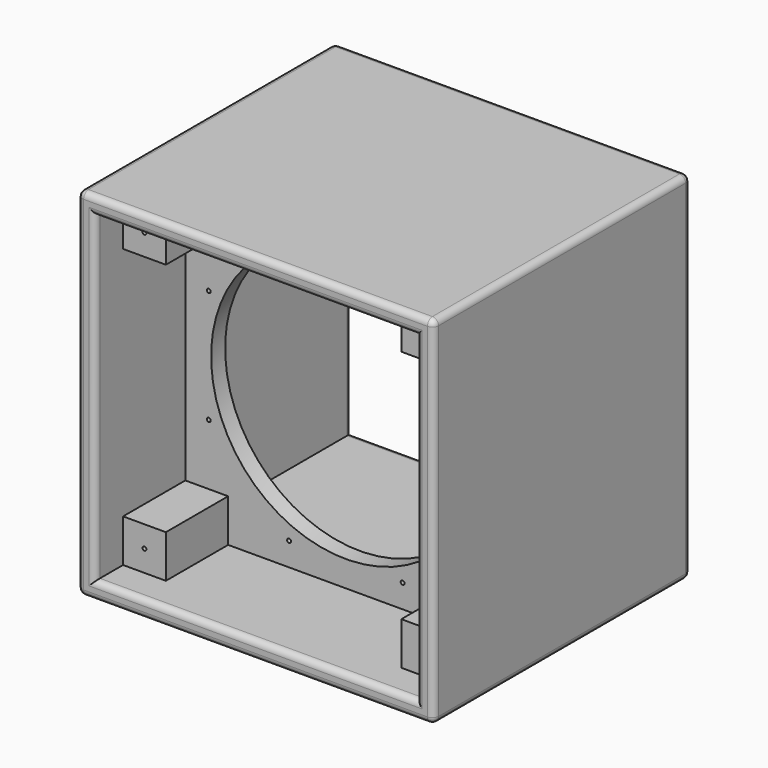
from build123d import *

# Parameters (mm, degrees)
F0_W     = 366
F0_H     = 366
F1_DEPTH = 330
F0_W_2   = 44
F0_H_2   = 44
F0_R     = 2
F0_R_2   = 138.5
F2_DEPTH = 18
F3_DEPTH = 80
F4_R     = 6.3


with BuildPart() as f1:
    # F0 (on Front) → F1 (new body)
    with BuildSketch(Plane.XZ):
        Rectangle(F0_W, F0_H)
        Polygon((165, -121), (165, -165), (121, -165), (-121, -165), (-165, -165), (-165, -121), (-165, 121), (-165, 165), (-121, 165), (121, 165), (165, 165), (165, 121), align=None, mode=Mode.SUBTRACT)
    extrude(amount=-F1_DEPTH)

    # F4
    f4_edges = [f1.edges().sort_by_distance(p)[0] for p in [
        (183, 165, -183),
        (183, 165, 183),
        (183, 0, 0),
        (183, 330, 0),
        (-183, 165, 183),
        (0, 0, 183),
        (0, 330, 183),
        (-183, 165, -183),
        (-183, 0, 0),
        (-183, 330, 0),
        (0, 0, -183),
        (0, 330, -183),
        (165, 0, 0),
        (0, 0, -165),
        (-165, 0, 0),
        (0, 0, 165),
        (0, 330, -165),
        (-165, 330, 0),
        (0, 330, 165),
        (165, 330, 0),
    ]]
    fillet(f4_edges, radius=F4_R)


with BuildPart() as f2:
    # F0 (on Front) → F2 (new body)
    with BuildSketch(Plane.XZ):
        with Locations((143, -143)):
            Rectangle(F0_W_2, F0_H_2)
        with Locations((143, -143)):
            Circle(F0_R, mode=Mode.SUBTRACT)
        Polygon((-121, -165), (121, -165), (121, -121), (165, -121), (165, 121), (121, 121), (121, 165), (-121, 165), (-121, 121), (-165, 121), (-165, -121), (-121, -121), align=None)
        with Locations((-58.3592234357, -140.891628708)):
            Circle(F0_R, mode=Mode.SUBTRACT)
        with Locations((-140.891628708, -58.3592234357)):
            Circle(F0_R, mode=Mode.SUBTRACT)
        with Locations((58.3592234357, -140.891628708)):
            Circle(F0_R, mode=Mode.SUBTRACT)
        with Locations((140.891628708, -58.3592234357)):
            Circle(F0_R, mode=Mode.SUBTRACT)
        with Locations((-140.891628708, 58.3592234357)):
            Circle(F0_R, mode=Mode.SUBTRACT)
        with Locations((-58.3592234357, 140.891628708)):
            Circle(F0_R, mode=Mode.SUBTRACT)
        Circle(F0_R_2, mode=Mode.SUBTRACT)
        with Locations((140.891628708, 58.3592234357)):
            Circle(F0_R, mode=Mode.SUBTRACT)
        with Locations((58.3592234357, 140.891628708)):
            Circle(F0_R, mode=Mode.SUBTRACT)
        with Locations((-143, -143)):
            Rectangle(F0_W_2, F0_H_2)
        with Locations((-143, -143)):
            Circle(F0_R, mode=Mode.SUBTRACT)
        with Locations((-143, 143)):
            Rectangle(F0_W_2, F0_H_2)
        with Locations((-143, 143)):
            Circle(F0_R, mode=Mode.SUBTRACT)
        Polygon((-121, -165), (121, -165), (121, -121), (165, -121), (165, 121), (121, 121), (121, 165), (-121, 165), (-121, 121), (-165, 121), (-165, -121), (-121, -121), align=None)
        with Locations((-58.3592234357, -140.891628708)):
            Circle(F0_R, mode=Mode.SUBTRACT)
        with Locations((-140.891628708, -58.3592234357)):
            Circle(F0_R, mode=Mode.SUBTRACT)
        with Locations((58.3592234357, -140.891628708)):
            Circle(F0_R, mode=Mode.SUBTRACT)
        with Locations((140.891628708, -58.3592234357)):
            Circle(F0_R, mode=Mode.SUBTRACT)
        with Locations((-140.891628708, 58.3592234357)):
            Circle(F0_R, mode=Mode.SUBTRACT)
        with Locations((-58.3592234357, 140.891628708)):
            Circle(F0_R, mode=Mode.SUBTRACT)
        Circle(F0_R_2, mode=Mode.SUBTRACT)
        with Locations((140.891628708, 58.3592234357)):
            Circle(F0_R, mode=Mode.SUBTRACT)
        with Locations((58.3592234357, 140.891628708)):
            Circle(F0_R, mode=Mode.SUBTRACT)
        with Locations((143, 143)):
            Rectangle(F0_W_2, F0_H_2)
        with Locations((143, 143)):
            Circle(F0_R, mode=Mode.SUBTRACT)
    extrude(amount=-F2_DEPTH)


with BuildPart() as f3:
    # F0 (on Front) → F3 (new body)
    with BuildSketch(Plane.XZ):
        with Locations((-143, 143)):
            Rectangle(F0_W_2, F0_H_2)
        with Locations((-143, 143)):
            Circle(F0_R, mode=Mode.SUBTRACT)
    extrude(amount=-F3_DEPTH)


with BuildPart() as f3b:
    # F0 (on Front) → F3, piece 2 (new body)
    with BuildSketch(Plane.XZ):
        with Locations((143, 143)):
            Rectangle(F0_W_2, F0_H_2)
        with Locations((143, 143)):
            Circle(F0_R, mode=Mode.SUBTRACT)
    extrude(amount=-F3_DEPTH)


with BuildPart() as f3c:
    # F0 (on Front) → F3, piece 3 (new body)
    with BuildSketch(Plane.XZ):
        with Locations((143, -143)):
            Rectangle(F0_W_2, F0_H_2)
        with Locations((143, -143)):
            Circle(F0_R, mode=Mode.SUBTRACT)
    extrude(amount=-F3_DEPTH)


with BuildPart() as f3d:
    # F0 (on Front) → F3, piece 4 (new body)
    with BuildSketch(Plane.XZ):
        with Locations((-143, -143)):
            Rectangle(F0_W_2, F0_H_2)
        with Locations((-143, -143)):
            Circle(F0_R, mode=Mode.SUBTRACT)
    extrude(amount=-F3_DEPTH)


with BuildPart() as f3_1:
    # F5: moved
    add(f3.part.moved(Location((0, 36, 0))))


with BuildPart() as f3b_1:
    # F5: moved
    add(f3b.part.moved(Location((0, 36, 0))))


with BuildPart() as f3c_1:
    # F5: moved
    add(f3c.part.moved(Location((0, 36, 0))))


with BuildPart() as f3d_1:
    # F5: moved
    add(f3d.part.moved(Location((0, 36, 0))))


with BuildPart() as f2_1:
    # F6: moved
    add(f2.part.moved(Location((0, 116, 0))))


solid = Compound([f1.part, f3_1.part, f3b_1.part, f3c_1.part, f3d_1.part, f2_1.part])
